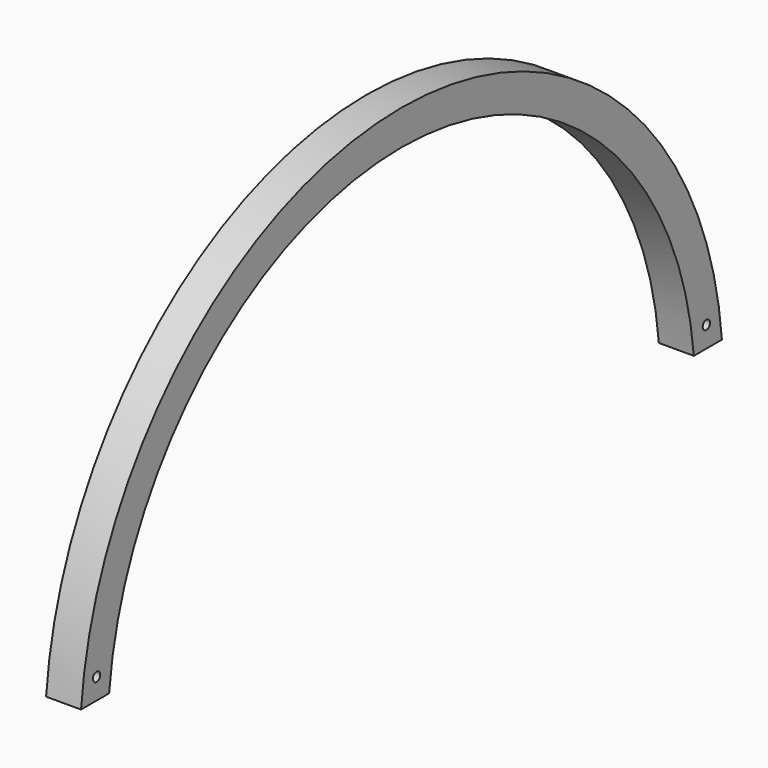
from build123d import *

# Parameters (mm, degrees)
BOX105_W          = 202
BOX105_H          = 239
BOX105_DEPTH      = 10
CYLINDER080_R     = 1.3
CYLINDER080_DEPTH = 331
CYLINDER078_R     = 1.3
CYLINDER078_DEPTH = 331
CYLINDER079_W     = 105
CYLINDER079_H     = 10
CYLINDER079_ANGLE = 180
CYLINDER077_W     = 115
CYLINDER077_H     = 10
CYLINDER077_ANGLE = 180


with BuildPart() as cubo068:
    # Box105 → Box105 (new body)
    with BuildSketch(Plane.XY.offset(162)):
        with Locations((101, 119.5)):
            Rectangle(BOX105_W, BOX105_H)
    extrude(amount=BOX105_DEPTH)


with BuildPart() as cilindro080:
    # Cylinder080 → Cylinder080 (new body)
    with BuildSketch(Plane(origin=(5, 224, 178), x_dir=(0, 0, -1), z_dir=(1, 0, 0))):
        Circle(CYLINDER080_R)
    extrude(amount=CYLINDER080_DEPTH)


with BuildPart() as cilindro078:
    # Cylinder078 → Cylinder078 (new body)
    with BuildSketch(Plane(origin=(5, 6, 178), x_dir=(0, 0, -1), z_dir=(1, 0, 0))):
        Circle(CYLINDER078_R)
    extrude(amount=CYLINDER078_DEPTH)


with BuildPart() as cilindro079:
    # Cylinder079 → Cylinder079 (revolve)
    with BuildSketch(Plane(origin=(-3, 115, 171), x_dir=(0, -1, 0), z_dir=(0, 0, -1))):
        with Locations((52.5, 5)):
            Rectangle(CYLINDER079_W, CYLINDER079_H)
    revolve(axis=Axis((-3, 115, 171), (-1, 0, 0)), revolution_arc=CYLINDER079_ANGLE)


with BuildPart() as cut091:
    # Cylinder077 → Cylinder077 (revolve)
    with BuildSketch(Plane(origin=(-3, 115, 171), x_dir=(0, -1, 0), z_dir=(0, 0, -1))):
        with Locations((57.5, 5)):
            Rectangle(CYLINDER077_W, CYLINDER077_H)
    revolve(axis=Axis((-3, 115, 171), (-1, 0, 0)), revolution_arc=CYLINDER077_ANGLE)

    # Cut086: cut Cilindro079
    add(cilindro079.part, mode=Mode.SUBTRACT)


with BuildPart() as cut091_1:
    # Cut086 placement: moved
    add(cut091.part.moved(Location((13, 0, -9))))

    # Cut087: cut Cilindro078
    add(cilindro078.part, mode=Mode.SUBTRACT)

    # Cut085: cut Cilindro080
    add(cilindro080.part, mode=Mode.SUBTRACT)


with BuildPart() as cut091_2:
    # Cut085 placement: moved
    add(cut091_1.part.moved(Location((166, 0, 0))))

    # Cut091: cut Cubo068
    add(cubo068.part, mode=Mode.SUBTRACT)


solid = cut091_2.part
